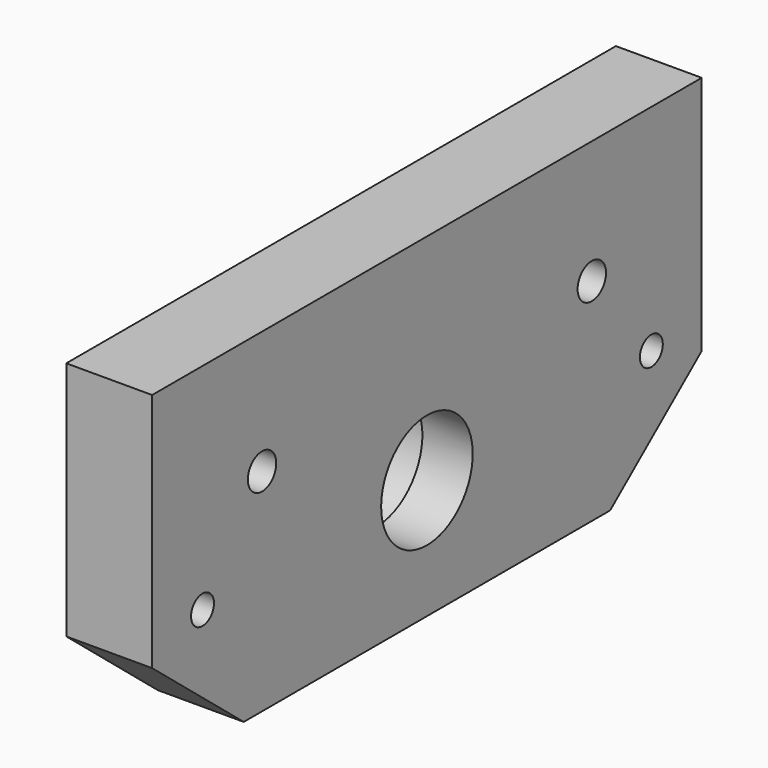
from build123d import *

# Parameters (mm, degrees)
SKETCH_R        = 10
SKETCH_R_2      = 3.1
SKETCH_R_3      = 2.5
PAD_DEPTH       = 15
SKETCH001_R     = 5.4
POCKET_DEPTH    = 6.5
SKETCH002_R     = 12.4
POCKET001_DEPTH = 6.2


with BuildPart() as part:
    # Sketch → Pad (new body)
    with BuildSketch(Plane(origin=(0, 0, 0), x_dir=(0, -1, 0), z_dir=(-1, 0, 0))):
        Polygon((-60, 0), (60, 0), (60, -42), (40, -58.4), (-40, -58.4), (-60, -42), align=None)
        with Locations((0, -37.5)):
            Circle(SKETCH_R, mode=Mode.SUBTRACT)
        with Locations((-36, -21.5)):
            Circle(SKETCH_R_2, mode=Mode.SUBTRACT)
        with Locations((36, -21.5)):
            Circle(SKETCH_R_2, mode=Mode.SUBTRACT)
        with Locations((49, -37.5)):
            Circle(SKETCH_R_3, mode=Mode.SUBTRACT)
        with Locations((-49, -37.5)):
            Circle(SKETCH_R_3, mode=Mode.SUBTRACT)
    extrude(amount=PAD_DEPTH)

    # Sketch001 → Pocket (cut)
    with BuildSketch(Plane(origin=(-15, 0, 0), x_dir=(0, -1, 0), z_dir=(-1, 0, 0))):
        with Locations((-36, -21.5)):
            Circle(SKETCH001_R)
        with Locations((36, -21.5)):
            Circle(SKETCH001_R)
    extrude(amount=-POCKET_DEPTH, mode=Mode.SUBTRACT)

    # Sketch002 → Pocket001 (cut)
    with BuildSketch(Plane(origin=(-15, 0, 0), x_dir=(0, -1, 0), z_dir=(-1, 0, 0))):
        with Locations((0, -37.5)):
            Circle(SKETCH002_R)
    extrude(amount=-POCKET001_DEPTH, mode=Mode.SUBTRACT)


solid = part.part
